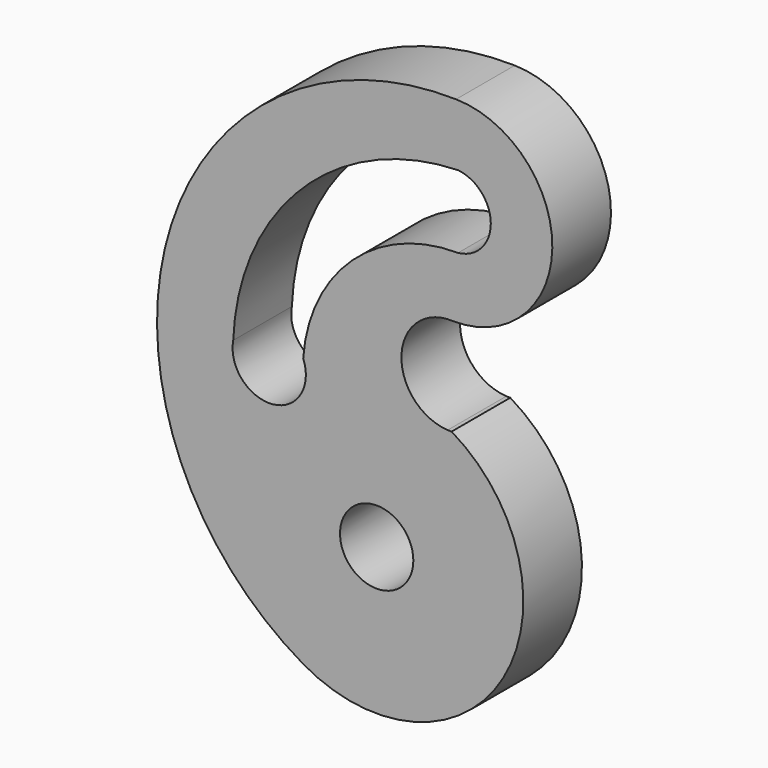
from build123d import *

# Parameters (mm, degrees)
F0_R     = 190.5
F1_DEPTH = 381


with BuildPart() as f1:
    # F0 (on Front) → F1 (new body)
    with BuildSketch(Plane.XZ):
        with BuildLine():
            ThreePointArc((14.16272, 503.475785), (530.220302, 1005.591985), (30.220463, 1523.700339))
            ThreePointArc((30.220463, 1523.700339), (-1467.616695, 410.703342), (-765.030695, -1318.068297))
            ThreePointArc((-765.030695, -1318.068297), (274.480093, -1045.040613), (6.97137, -4.095909))
            ThreePointArc((6.97137, -4.095909), (-3.278757, -4.170434), (-13.523544, -3.831329))
            ThreePointArc((-13.523544, -3.831329), (-253.622514, 263.651104), (14.161835, 503.413298))
            Line((14.161835, 503.413298), (14.16272, 503.475785))
        make_face()
        with Locations((-382.515347, -659.034149)):
            Circle(F0_R, mode=Mode.SUBTRACT)
        with BuildLine():
            ThreePointArc((-764.417338, 79.58688), (-922.60464, -181.466377), (-1128.052868, 44.283598))
            ThreePointArc((-1128.052868, 44.283598), (-771.701517, 853.953623), (41.164498, 1202.953158))
            ThreePointArc((41.164498, 1202.953158), (210.602897, 1013.050037), (40.02935, 824.165862))
            ThreePointArc((40.02935, 824.165862), (-509.754234, 611.301159), (-764.417338, 79.58688))
        make_face(mode=Mode.SUBTRACT)
    extrude(amount=F1_DEPTH)


solid = f1.part
